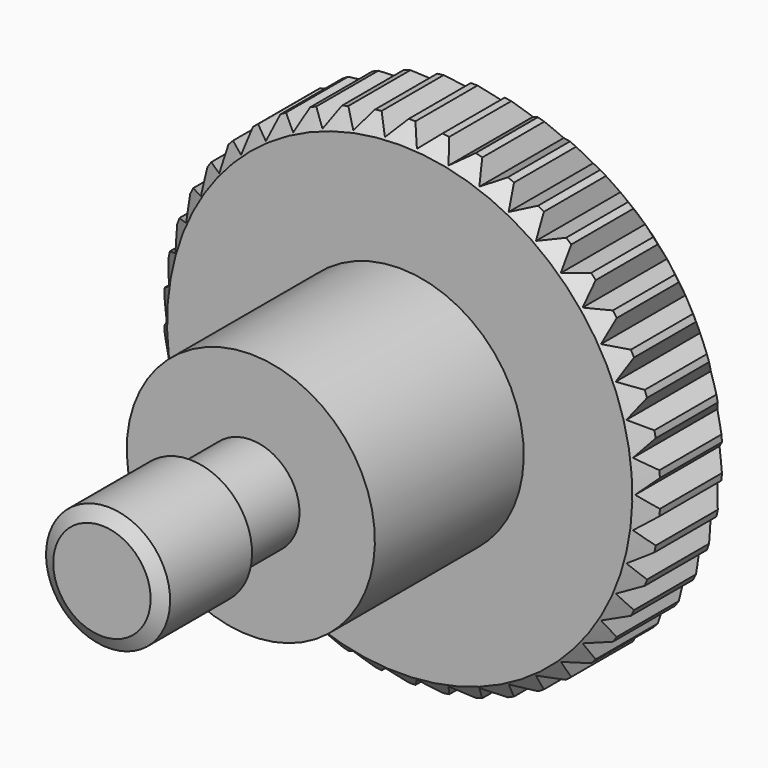
from build123d import *

# Parameters (mm, degrees)
POCKET_DEPTH       = 70.355353
POLARPATTERN_COUNT = 46


with BuildPart() as part:
    # Sketch → Revolution (revolve)
    with BuildSketch(Plane.YZ):
        Polygon((0, 0), (0, 1.57), (0.248261, 2), (3.55, 2), (3.798261, 1.57), (6, 1.57), (6, 4), (12, 4), (12, 7.5), (12.5, 8), (15, 8), (15.5, 7.5), (15.5, 0), align=None)
    revolve(axis=Axis((0, 0, 0), (0, 1, 0)))

    # Sketch001 → Pocket (cut, through all)
    with BuildSketch(Plane.ZX.offset(15.5)):
        Polygon((-0.5, 8.05), (0, 7.55), (0.5, 8.05), align=None)
    pocket = extrude(amount=-POCKET_DEPTH, mode=Mode.SUBTRACT)

    # PolarPattern: Pocket ×46 about axis
    polarpattern_axis = Axis((0, 15.5, 0), (0, 1, 0))
    for i in range(1, POLARPATTERN_COUNT):
        add(pocket.rotate(polarpattern_axis, i * 360 / POLARPATTERN_COUNT), mode=Mode.SUBTRACT)


solid = part.part
